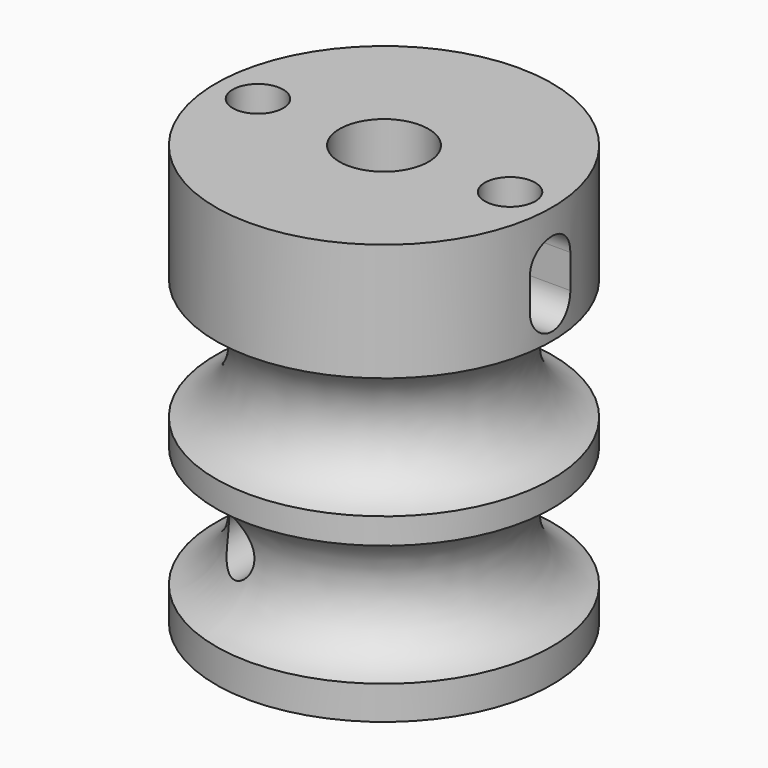
from build123d import *

# Parameters (mm, degrees)
SKETCH029_R      = 1.5
EXTRUDE023_DEPTH = 20
EXTRUDE022_DEPTH = 5
FILLET010_R      = 1.4999
EXTRUDE021_DEPTH = 5
FILLET009_R      = 1.4999
SKETCH026_R      = 1.5
EXTRUDE020_DEPTH = 5


with BuildPart() as extrude023:
    # Sketch029 → Extrude023 (new body)
    with BuildSketch(Plane.XZ):
        with Locations((-3.675, 12.385792)):
            Circle(SKETCH029_R)
    extrude(amount=EXTRUDE023_DEPTH)


with BuildPart() as fillet010:
    # Sketch028 → Extrude022 (new body)
    with BuildSketch(Plane.YZ):
        with BuildLine():
            ThreePointArc((1.5, 27), (0, 28.5), (-1.5, 27))
            Line((-1.5, 27), (-1.5, 25))
            ThreePointArc((-1.5, 25), (0, 23.5), (1.5, 25))
            Line((1.5, 25), (1.5, 27))
        make_face()
    extrude(amount=EXTRUDE022_DEPTH)


with BuildPart() as fillet010_1:
    # Extrude022 placement: moved
    add(fillet010.part.moved(Location((6, 0, 0))))

    # Fillet010
    fillet010_edges = [fillet010_1.edges().sort_by_distance(p)[0] for p in [
        (6, 0, 28.5),
    ]]
    fillet(fillet010_edges, radius=FILLET010_R)


with BuildPart() as fillet010_2:
    # Fillet010 placement: moved
    add(fillet010_1.part.moved(Location((0, 0, 2))))


with BuildPart() as fillet009:
    # Sketch027 → Extrude021 (new body)
    with BuildSketch(Plane.YZ):
        with BuildLine():
            ThreePointArc((1.5, 27), (0, 28.5), (-1.5, 27))
            Line((-1.5, 27), (-1.5, 25))
            ThreePointArc((-1.5, 25), (0, 23.5), (1.5, 25))
            Line((1.5, 25), (1.5, 27))
        make_face()
    extrude(amount=EXTRUDE021_DEPTH)


with BuildPart() as fillet009_1:
    # Extrude021 placement: moved
    add(fillet009.part.moved(Location((6, 0, 0))))

    # Fillet009
    fillet009_edges = [fillet009_1.edges().sort_by_distance(p)[0] for p in [
        (6, 0, 28.5),
    ]]
    fillet(fillet009_edges, radius=FILLET009_R)


with BuildPart() as fillet009_2:
    # Fillet009 placement: moved
    add(fillet009_1.part.moved(Location((0, 0, 2))))


with BuildPart() as fusion008:
    # Part__Mirroring: instance of Fillet009
    add(fillet009_2.part.mirror(Plane(origin=(0, 0, 0), x_dir=(0, -1, 0), z_dir=(1, 0, 0))))

    # Fusion008: union Fillet010
    add(fillet010_2.part)


with BuildPart() as extrude020:
    # Sketch026 → Extrude020 (new body)
    with BuildSketch(Plane.XY):
        with Locations((7.5, 0)):
            Circle(SKETCH026_R)
        with Locations((-7.5, 0)):
            Circle(SKETCH026_R)
    extrude(amount=-EXTRUDE020_DEPTH)


with BuildPart() as extrude020_1:
    # Extrude020 placement: moved
    add(extrude020.part.moved(Location((0, 0, 32))))


with BuildPart() as cut008:
    # Sketch025 → Revolve001 (revolve)
    with BuildSketch(Plane.YZ):
        with BuildLine():
            Line((-2.65, 27), (-2.65, 7))
            Line((-2.65, 7), (-10, 7))
            Line((-10, 7), (-10, 9))
            ThreePointArc((-10, 9), (-7.25, 12.614208), (-10, 16.228416))
            Line((-10, 17.771584), (-10, 16.228416))
            ThreePointArc((-10, 17.771584), (-7.25, 21.385792), (-10, 25))
            Line((-10, 27), (-10, 25))
            Line((-10, 27), (-10, 32))
            Line((-10, 32), (-2.65, 32))
            Line((-2.65, 32), (-2.65, 27))
        make_face()
    revolve(axis=Axis((0, 0, 0), (0, 0, 1)))

    # Cut006: cut Extrude020
    add(extrude020_1.part, mode=Mode.SUBTRACT)

    # Cut007: cut Fusion008
    add(fusion008.part, mode=Mode.SUBTRACT)

    # Cut008: cut Extrude023
    add(extrude023.part, mode=Mode.SUBTRACT)


solid = cut008.part
